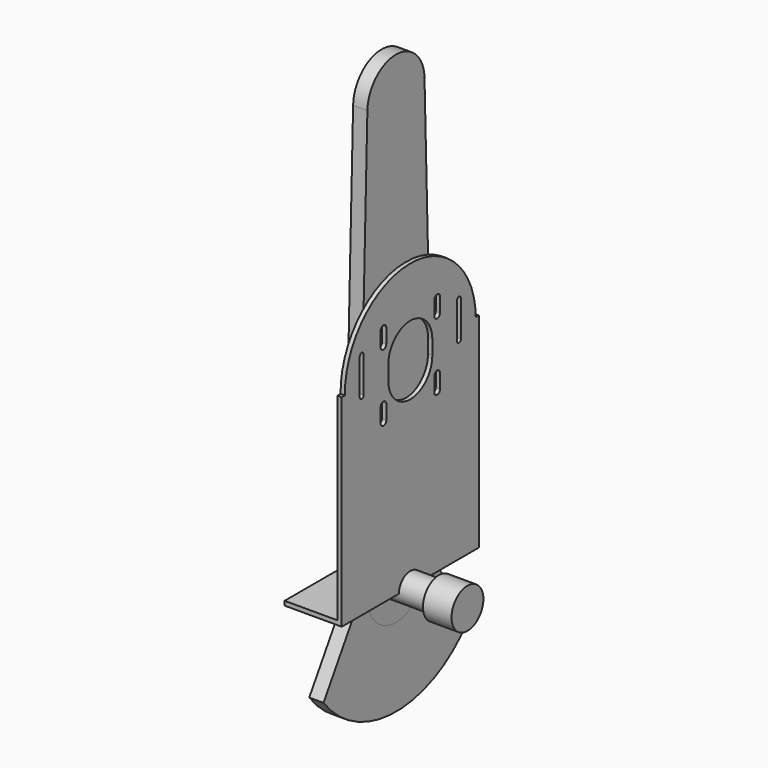
from build123d import *

# Parameters (mm, degrees)
SKETCH_W        = 40
SKETCH_H        = 120
PAD_DEPTH       = 3
SKETCH001_R     = 2.75
HOLE_DEPTH      = 25
SKETCH002_W     = 3
SKETCH002_H     = 120
PAD001_DEPTH    = 200
POCKET_DEPTH    = 5
POCKET001_DEPTH = 5
PAD002_DEPTH    = 10
SKETCH106_R     = 25
PAD003_DEPTH    = 10
SKETCH107_R     = 10
PAD004_DEPTH    = 50
SKETCH108_R     = 13.939896
PAD005_DEPTH    = 20


with BuildPart() as b_y_axis_base_left:
    # Sketch → Pad (new body)
    with BuildSketch(Plane.XY):
        Rectangle(SKETCH_W, SKETCH_H)
    extrude(amount=PAD_DEPTH)

    # Sketch001 → Hole (cut)
    with BuildSketch(Plane.XY.offset(3)):
        with Locations((-7.5, 20)):
            Circle(SKETCH001_R)
        with Locations((7.5, 20)):
            Circle(SKETCH001_R)
        with Locations((-7.5, -20)):
            Circle(SKETCH001_R)
        with Locations((7.5, -20)):
            Circle(SKETCH001_R)
    extrude(amount=-HOLE_DEPTH, mode=Mode.SUBTRACT)

    # Sketch002 → Pad001 (join)
    with BuildSketch(Plane.XY.offset(3)):
        with Locations((18.5, 0)):
            Rectangle(SKETCH002_W, SKETCH002_H)
    extrude(amount=PAD001_DEPTH)

    # Sketch104 (on Part) → Pocket (cut)
    with BuildSketch(Plane(origin=(20, 0, 140), x_dir=(0, 1, 0), z_dir=(1, 0, 0))):
        with BuildLine():
            ThreePointArc((-21, 28.5), (-23.5, 31), (-26, 28.5))
            Line((-26, 28.5), (-26, 18.5))
            ThreePointArc((-26, 18.5), (-23.5, 16), (-21, 18.5))
            Line((-21, 18.5), (-21, 28.5))
        make_face()
        with BuildLine():
            ThreePointArc((26, 28.5), (23.5, 31), (21, 28.5))
            Line((21, 28.5), (21, 18.5))
            ThreePointArc((21, 18.5), (23.5, 16), (26, 18.5))
            Line((26, 18.5), (26, 28.5))
        make_face()
        with BuildLine():
            ThreePointArc((26, -18.5), (23.5, -16), (21, -18.5))
            Line((21, -18.5), (21, -28.5))
            ThreePointArc((21, -28.5), (23.5, -31), (26, -28.5))
            Line((26, -28.5), (26, -18.5))
        make_face()
        with BuildLine():
            ThreePointArc((-21, -18.5), (-23.5, -16), (-26, -18.5))
            Line((-26, -18.5), (-26, -28.5))
            ThreePointArc((-26, -28.5), (-23.5, -31), (-21, -28.5))
            Line((-21, -28.5), (-21, -18.5))
        make_face()
        with BuildLine():
            ThreePointArc((19.25, 5), (0, 24.25), (-19.25, 5))
            Line((-19.25, 5), (-19.25, -5))
            ThreePointArc((-19.25, -5), (0, -24.25), (19.25, -5))
            Line((19.25, -5), (19.25, 5))
        make_face()
        with BuildLine():
            ThreePointArc((-40.75, 20), (-42.5, 21.75), (-44.25, 20))
            Line((-44.25, 20), (-44.25, -5))
            ThreePointArc((-44.25, -5), (-42.5, -6.75), (-40.75, -5))
            Line((-40.75, -5), (-40.75, 20))
        make_face()
        with BuildLine():
            ThreePointArc((44.25, 20), (42.5, 21.75), (40.75, 20))
            Line((40.75, 20), (40.75, -5))
            ThreePointArc((40.75, -5), (42.5, -6.75), (44.25, -5))
            Line((44.25, -5), (44.25, 20))
        make_face()
    extrude(amount=-POCKET_DEPTH, mode=Mode.SUBTRACT)

    # Sketch105 → Pocket001 (cut)
    with BuildSketch(Plane.YZ.offset(20)):
        with BuildLine():
            ThreePointArc((113.108162, 143.789978), (-1.560529, 255.337611), (-113.108162, 140.668919))
            Line((-113.108162, 140.668919), (-57.274676, 141.439242))
            ThreePointArc((57.274676, 143.019655), (-0.790207, 199.504125), (-57.274676, 141.439242))
            Line((113.108162, 143.789978), (57.274676, 143.019655))
        make_face()
    extrude(amount=-POCKET001_DEPTH, mode=Mode.SUBTRACT)


with BuildPart() as b_y_axis_arm_left:
    # Sketch003 → Pad002 (new body)
    with BuildSketch(Plane.YZ):
        with BuildLine():
            ThreePointArc((24.918394, 300.699796), (-0.077775, 324.999999), (-25.062344, 300.687869))
            Line((-25.062344, 300.687869), (-33.338837, 0))
            Line((-33.338837, 0), (-63.443909, -48.732643))
            ThreePointArc((-63.443909, -48.732643), (0, -80), (63.443909, -48.732643))
            Line((33.338837, 0), (63.443909, -48.732643))
            Line((24.918394, 300.699796), (33.338837, 0))
        make_face()
    extrude(amount=PAD002_DEPTH)


with BuildPart() as body:
    # Sketch106 → Pad003 (new body)
    with BuildSketch(Plane.YZ):
        Circle(SKETCH106_R)
    extrude(amount=PAD003_DEPTH)

    # Sketch107 → Pad004 (join)
    with BuildSketch(Plane.YZ):
        Circle(SKETCH107_R)
    extrude(amount=PAD004_DEPTH)

    # Sketch108 → Pad005 (join)
    with BuildSketch(Plane.YZ.offset(40)):
        Circle(SKETCH108_R)
    extrude(amount=PAD005_DEPTH)


solid = Compound([b_y_axis_base_left.part, b_y_axis_arm_left.part, body.part])
